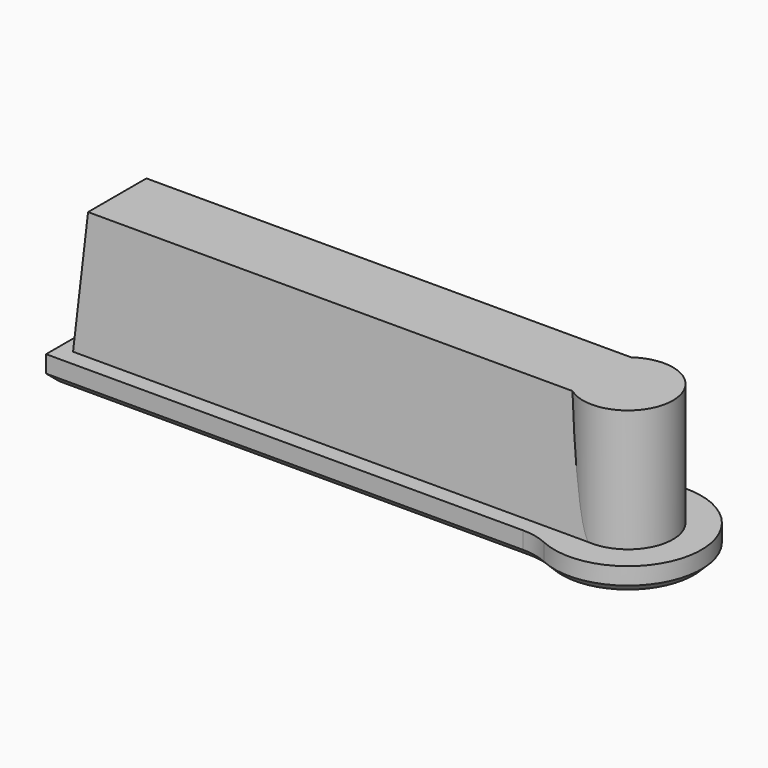
from build123d import *

# Parameters (mm, degrees)
F1_DEPTH = 15.24
F1_TAPER = 3.9
F3_DEPTH = 2.54
F4_R     = 3.3655
F5_DEPTH = 12.7
F6_R     = 4.6711310498
F6_R_2   = 3.429
F7_DEPTH = 12.7
F8_R     = 3.805331909
F9_DEPTH = 2.54
F10_SIZE = 0.762


with BuildPart() as f1:
    # F0 (on Top) → F1 (new body)
    with BuildSketch(Plane.XY):
        Polygon((-50.7999970374, 9.652), (-50.7999970374, 0), (3.175, 0), (3.175, 9.6704338458), align=None)
    extrude(amount=F1_DEPTH, taper=F1_TAPER)

    # F2 (on face) → F3 (join)
    with BuildSketch(Plane(origin=(0, 0, 0), x_dir=(1, 0, 0), z_dir=(0, 0, -1))):
        with BuildLine():
            ThreePointArc((-2.5432681699, -11.1761773853), (-1.1894436211, -11.3221739124), (0.1021277994, -11.7534501125))
            ThreePointArc((0.1021277994, -11.7534501125), (10.8966029626, -4.8261773853), (0.1021277994, 2.101095342))
            ThreePointArc((0.1021277994, 2.101095342), (-1.1894436211, 1.6698191419), (-2.5432681699, 1.5238226147))
            Line((-2.5432681699, 1.5238226147), (-52.0699970374, 1.5238226147))
            Line((-52.0699970374, 1.5238226147), (-52.0699970374, -11.1761773853))
            Line((-52.0699970374, -11.1761773853), (-2.5432681699, -11.1761773853))
        make_face()
    extrude(amount=-F3_DEPTH)

    # F4 (on face) → F5 (cut)
    with BuildSketch(Plane(origin=(0, 0, 0), x_dir=(1, 0, 0), z_dir=(0, 0, -1))):
        with Locations((3.2766029626, -4.8261773853)):
            Circle(F4_R)
    extrude(amount=-F5_DEPTH, mode=Mode.SUBTRACT)

    # F6 (on face) → F7 (join)
    with BuildSketch(Plane.XY.offset(2.54)):
        with Locations((3.2766029626, 4.8261773853)):
            Circle(F6_R)
        with Locations((3.2766029626, 4.8261773853)):
            Circle(F6_R_2, mode=Mode.SUBTRACT)
    extrude(amount=F7_DEPTH)

    # F8 (on face) → F9 (join)
    with BuildSketch(Plane.XY.offset(15.24)):
        with Locations((3.2766029626, 4.8261773853)):
            Circle(F8_R)
    extrude(amount=-F9_DEPTH)

    # F10
    f10_edges = [f1.edges().sort_by_distance(p)[0] for p in [
        (-1.189444, 11.322174, 0),
        (-27.306633, 11.176177, 0),
        (10.896603, 4.826177, 0),
        (-52.069997, 4.826177, 0),
        (-1.189444, -1.669819, 0),
        (-27.306633, -1.523823, 0),
        (-0.088897, 4.826177, 0),
    ]]
    chamfer(f10_edges, length=F10_SIZE)


solid = f1.part
